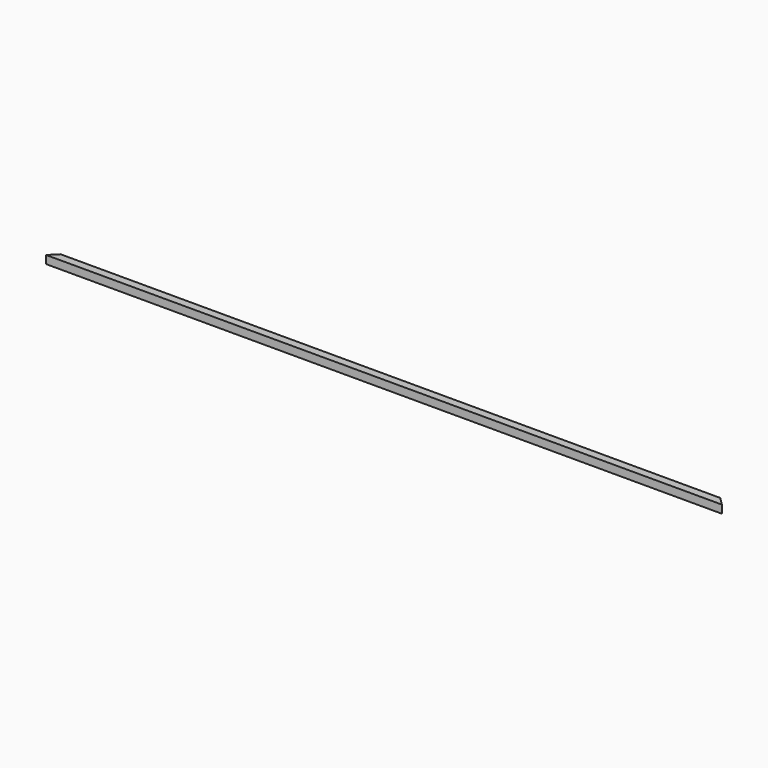
from build123d import *

# Parameters (mm, degrees)
F0_W     = 25.4
F0_H     = 25.4
F0_W_2   = 22.098
F0_H_2   = 22.098
F1_DEPTH = 2133.6
F3_DEPTH = 25.401
F5_DEPTH = 25.401


with BuildPart() as f1:
    # F0 (on Right) → F1 (new body)
    with BuildSketch(Plane.YZ):
        with Locations((12.7, 12.7)):
            Rectangle(F0_W, F0_H)
        with Locations((12.7, 12.7)):
            Rectangle(F0_W_2, F0_H_2, mode=Mode.SUBTRACT)
    extrude(amount=F1_DEPTH)

    # F2 (on face) → F3 (cut, through all)
    with BuildSketch(Plane.XY.offset(25.4)):
        Polygon((2108.2, 25.4), (2133.6, 0), (2133.6, 25.4), align=None)
    extrude(amount=-F3_DEPTH, mode=Mode.SUBTRACT)

    # F4 (on face) → F5 (cut, through all)
    with BuildSketch(Plane.XY.offset(25.4)):
        Polygon((0, 25.4), (0, 0), (25.4, 25.4), align=None)
    extrude(amount=-F5_DEPTH, mode=Mode.SUBTRACT)


solid = f1.part
